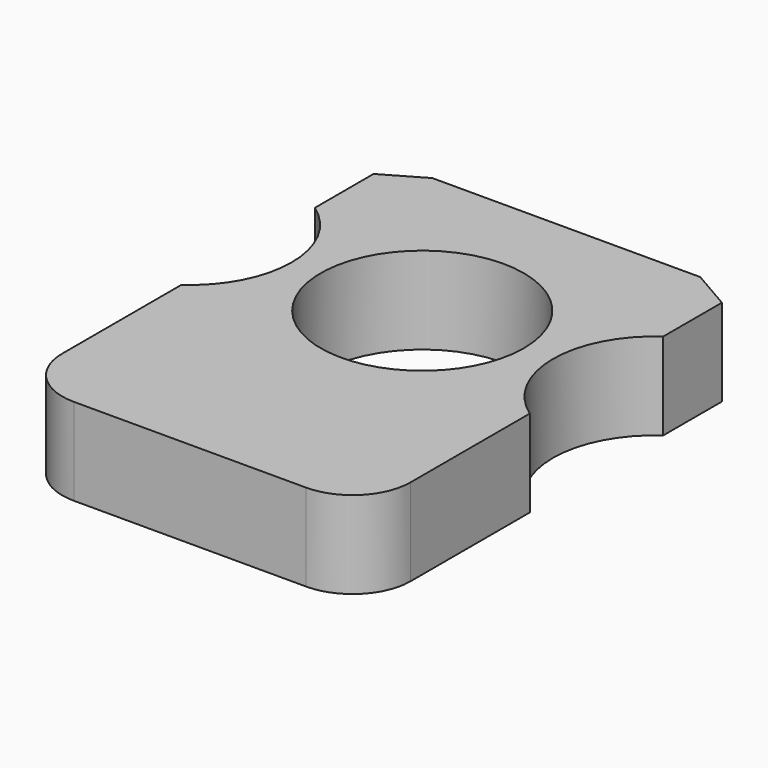
from build123d import *

# Parameters (mm, degrees)
F0_R       = 11.1125
F1_DEPTH   = 9.525
F2_SIZE2   = 8.7988181024
F2_SIZE    = 5.08
F2_2_SIZE2 = 8.7988181024
F2_2_SIZE  = 5.08
F3_SIZE2   = 2.54
F3_SIZE    = 2.54
F4_R       = 6.35


with BuildPart() as f1:
    # F0 (on Top) → F1 (new body)
    with BuildSketch(Plane.XY):
        with BuildLine():
            Line((19.05, 22.225), (-19.05, 22.225))
            Line((-19.05, 22.225), (-19.05, 9.1194932014))
            ThreePointArc((-19.05, 9.1194932014), (-14.2875, 0), (-19.05, -9.1194932014))
            Line((-19.05, -9.1194932014), (-19.05, -31.75))
            Line((-19.05, -31.75), (19.05, -31.75))
            Line((19.05, -31.75), (19.05, -9.1194932014))
            ThreePointArc((19.05, -9.1194932014), (14.2875, 0), (19.05, 9.1194932014))
            Line((19.05, 9.1194932014), (19.05, 22.225))
        make_face()
        Circle(F0_R, mode=Mode.SUBTRACT)
    extrude(amount=F1_DEPTH)

    # F2
    f2_edges = [f1.edges().sort_by_distance(p)[0] for p in [
        (-19.05, 22.225, 4.7625),
    ]]
    f2_side = f1.faces().sort_by_distance((-19.05, 15.672247, 4.7625))[0]
    chamfer(f2_edges, length=F2_SIZE, length2=F2_SIZE2, reference=f2_side)

    # F2#2
    f2_2_edges = [f1.edges().sort_by_distance(p)[0] for p in [
        (19.05, 22.225, 4.7625),
    ]]
    f2_2_side = f1.faces().sort_by_distance((19.05, 15.672247, 4.7625))[0]
    chamfer(f2_2_edges, length=F2_2_SIZE, length2=F2_2_SIZE2, reference=f2_2_side)

    # F3
    f3_edges = [f1.edges().sort_by_distance(p)[0] for p in [
        (0, 22.225, 9.525),
        (0, 22.225, 0),
    ]]
    chamfer(f3_edges, length=F3_SIZE, length2=F3_SIZE2)

    # F4
    f4_edges = [f1.edges().sort_by_distance(p)[0] for p in [
        (19.05, -31.75, 4.7625),
        (-19.05, -31.75, 4.7625),
    ]]
    fillet(f4_edges, radius=F4_R)


solid = f1.part
